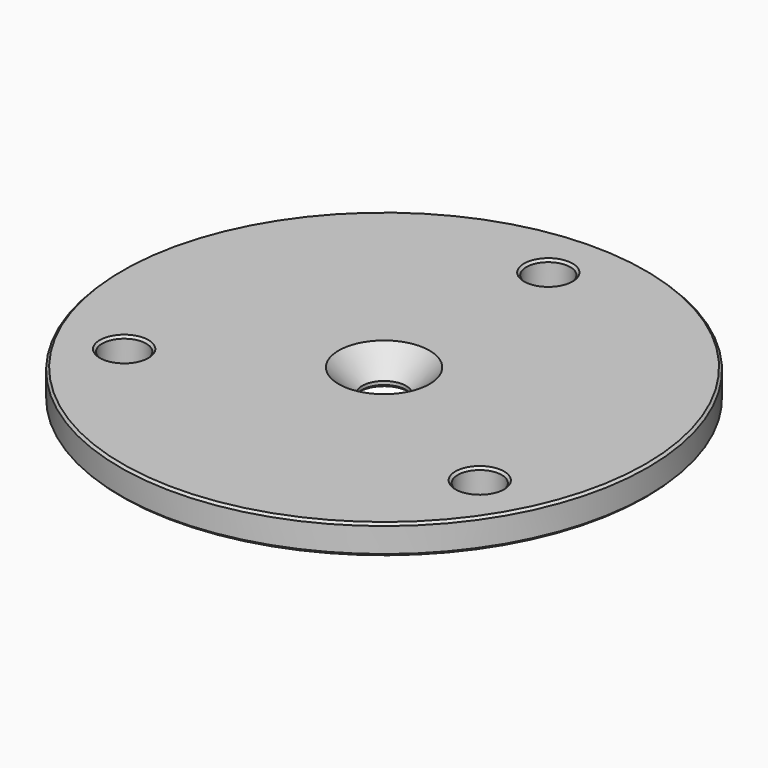
from build123d import *

# Parameters (mm, degrees)
F0_R     = 57.15
F0_R_2   = 4.7625
F1_DEPTH = 6.35
F2_SIZE  = 0.508
F3_SIZE  = 5.08


with BuildPart() as f1:
    # F0 (on Top) → F1 (new body)
    with BuildSketch(Plane.XY):
        Circle(F0_R)
        with Locations((-38.494829, -22.225)):
            Circle(F0_R_2, mode=Mode.SUBTRACT)
        with Locations((38.494829, -22.225)):
            Circle(F0_R_2, mode=Mode.SUBTRACT)
        Circle(F0_R_2, mode=Mode.SUBTRACT)
        with Locations((0, 44.45)):
            Circle(F0_R_2, mode=Mode.SUBTRACT)
    extrude(amount=F1_DEPTH)

    # F2
    f2_edges = [f1.edges().sort_by_distance(p)[0] for p in [
        (-57.15, 0, 6.35),
        (-4.7625, 44.45, 6.35),
        (-43.257329, -22.225, 6.35),
        (33.732329, -22.225, 6.35),
        (-57.15, 0, 0),
        (-4.7625, 44.45, 0),
        (33.732329, -22.225, 0),
        (-43.257329, -22.225, 0),
        (-4.7625, 0, 0),
    ]]
    chamfer(f2_edges, length=F2_SIZE)

    # F3
    f3_edges = [f1.edges().sort_by_distance(p)[0] for p in [
        (-4.7625, 0, 6.35),
    ]]
    chamfer(f3_edges, length=F3_SIZE)


solid = f1.part
